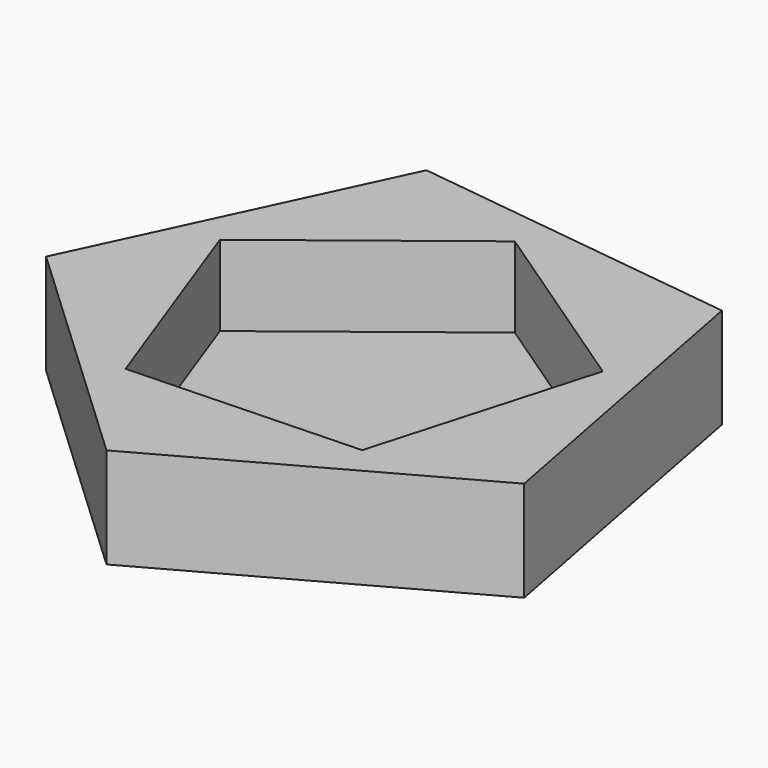
from build123d import *

# Parameters (mm, degrees)
F1_DEPTH = 12.7
F3_DEPTH = 10.16


with BuildPart() as f1:
    # F0 (on Top) → F1 (new body)
    with BuildSketch(Plane.XY):
        Polygon((-4.430224, -35.327877), (32.229793, -15.130308), (24.349332, 25.976833), (-17.181079, 31.184874), (-34.967822, -6.703521), align=None)
    extrude(amount=F1_DEPTH)

    # F2 (on face) → F3 (cut)
    with BuildSketch(Plane.XY.offset(12.7)):
        Polygon((15.254127, -19.519885), (23.278298, 8.47556), (-0.867347, 24.758069), (-23.814348, 6.825768), (-13.850729, -20.539513), align=None)
    extrude(amount=-F3_DEPTH, mode=Mode.SUBTRACT)


solid = f1.part
